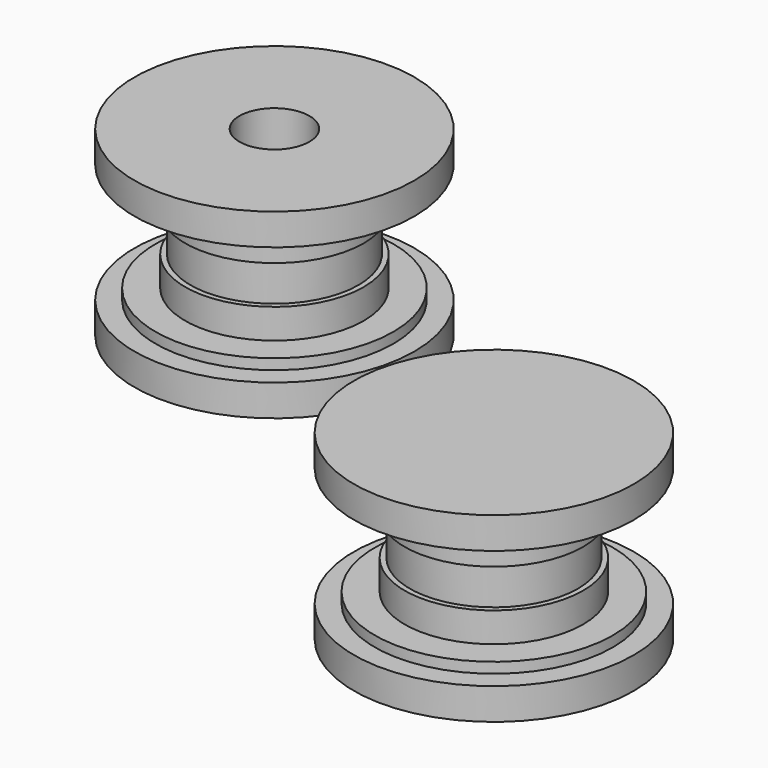
from build123d import *

# Parameters (mm, degrees)
F0_R      = 20
F1_DEPTH  = 4.5
F2_R      = 17
F3_DEPTH  = 6
F4_R      = 12.75
F5_DEPTH  = 10.25
F6_R      = 12
F7_DEPTH  = 15.75
F8_R      = 12.75
F9_DEPTH  = 4.25
F10_R     = 17
F11_DEPTH = 1.5
F12_R     = 20
F13_DEPTH = 4.5
F14_R     = 20
F14_R_2   = 5
F15_DEPTH = 4.5
F16_R     = 17
F16_R_2   = 5
F17_DEPTH = 1.5
F18_R     = 12.75
F18_R_2   = 5
F19_DEPTH = 4.25
F20_R     = 12
F20_R_2   = 5
F21_DEPTH = 5.5
F22_R     = 12.75
F22_R_2   = 5
F23_DEPTH = 4.25
F24_R     = 17
F24_R_2   = 5
F25_DEPTH = 1.5
F26_R     = 20
F26_R_2   = 5
F27_DEPTH = 4.5


with BuildPart() as f1:
    # F0 (on Top) → F1 (new body)
    with BuildSketch(Plane.XY):
        Circle(F0_R)
    extrude(amount=F1_DEPTH)

    # F2 (on Top) → F3 (join)
    with BuildSketch(Plane.XY):
        Circle(F2_R)
    extrude(amount=F3_DEPTH)

    # F4 (on Top) → F5 (join)
    with BuildSketch(Plane.XY):
        Circle(F4_R)
    extrude(amount=F5_DEPTH)

    # F6 (on Top) → F7 (join)
    with BuildSketch(Plane.XY):
        Circle(F6_R)
    extrude(amount=F7_DEPTH)

    # F8 (on face) → F9 (join)
    with BuildSketch(Plane.XY.offset(15.75)):
        Circle(F8_R)
    extrude(amount=F9_DEPTH)

    # F10 (on face) → F11 (join)
    with BuildSketch(Plane.XY.offset(20)):
        Circle(F10_R)
    extrude(amount=F11_DEPTH)

    # F12 (on face) → F13 (join)
    with BuildSketch(Plane.XY.offset(21.5)):
        Circle(F12_R)
    extrude(amount=F13_DEPTH)


with BuildPart() as f15:
    # F14 (on Top) → F15 (new body)
    with BuildSketch(Plane.XY):
        with Locations((-64.9275407195, 41.9746376574)):
            Circle(F14_R)
        with Locations((-64.9275407195, 41.9746376574)):
            Circle(F14_R_2, mode=Mode.SUBTRACT)
    extrude(amount=F15_DEPTH)

    # F16 (on face) → F17 (join)
    with BuildSketch(Plane.XY.offset(4.5)):
        with Locations((-64.9275407195, 41.9746376574)):
            Circle(F16_R)
        with Locations((-64.9275407195, 41.9746376574)):
            Circle(F16_R_2, mode=Mode.SUBTRACT)
    extrude(amount=F17_DEPTH)

    # F18 (on face) → F19 (join)
    with BuildSketch(Plane.XY.offset(6)):
        with Locations((-64.9275407195, 41.9746376574)):
            Circle(F18_R)
        with Locations((-64.9275407195, 41.9746376574)):
            Circle(F18_R_2, mode=Mode.SUBTRACT)
    extrude(amount=F19_DEPTH)

    # F20 (on face) → F21 (join)
    with BuildSketch(Plane.XY.offset(10.25)):
        with Locations((-64.9275407195, 41.9746376574)):
            Circle(F20_R)
        with Locations((-64.9275407195, 41.9746376574)):
            Circle(F20_R_2, mode=Mode.SUBTRACT)
    extrude(amount=F21_DEPTH)

    # F22 (on face) → F23 (join)
    with BuildSketch(Plane.XY.offset(15.75)):
        with Locations((-64.9275407195, 41.9746376574)):
            Circle(F22_R)
        with Locations((-64.9275407195, 41.9746376574)):
            Circle(F22_R_2, mode=Mode.SUBTRACT)
    extrude(amount=F23_DEPTH)

    # F24 (on face) → F25 (join)
    with BuildSketch(Plane.XY.offset(20)):
        with Locations((-64.9275407195, 41.9746376574)):
            Circle(F24_R)
        with Locations((-64.9275407195, 41.9746376574)):
            Circle(F24_R_2, mode=Mode.SUBTRACT)
    extrude(amount=F25_DEPTH)

    # F26 (on face) → F27 (join)
    with BuildSketch(Plane.XY.offset(21.5)):
        with Locations((-64.9275407195, 41.9746376574)):
            Circle(F26_R)
        with Locations((-64.9275407195, 41.9746376574)):
            Circle(F26_R_2, mode=Mode.SUBTRACT)
    extrude(amount=F27_DEPTH)


solid = Compound([f1.part, f15.part])
